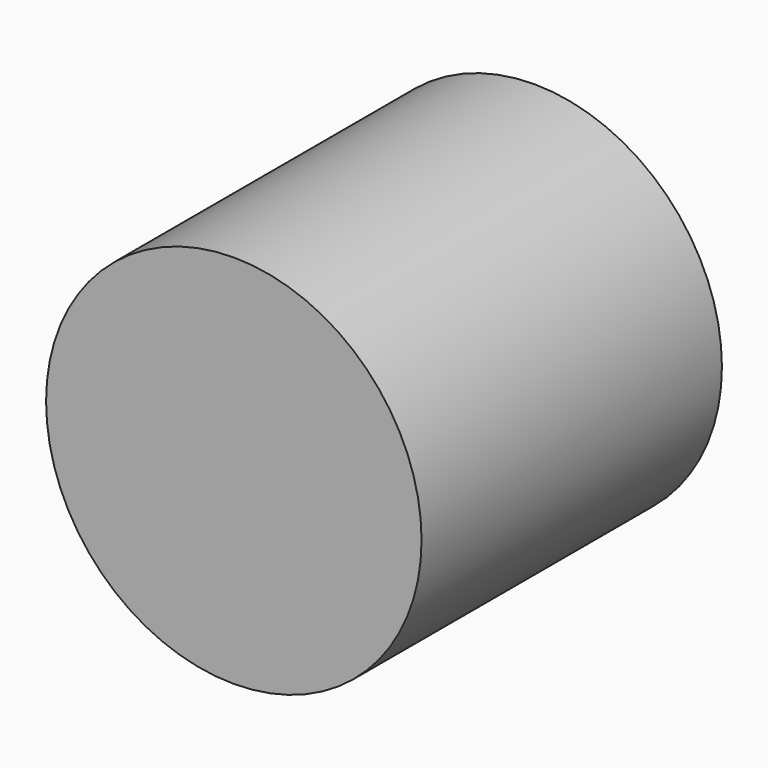
from build123d import *

# Parameters (mm, degrees)
F0_R     = 6.35
F0_R_2   = 3.175
F1_DEPTH = 12.7
F2_R     = 6.35
F3_DEPTH = 3


with BuildPart() as f1:
    # F0 (on Front) → F1 (new body)
    with BuildSketch(Plane.XZ):
        Circle(F0_R)
        Circle(F0_R_2, mode=Mode.SUBTRACT)
    extrude(amount=F1_DEPTH)

    # F2 (on face) → F3 (join)
    with BuildSketch(Plane.XZ.offset(12.7)):
        Circle(F2_R)
    extrude(amount=-F3_DEPTH)


solid = f1.part
